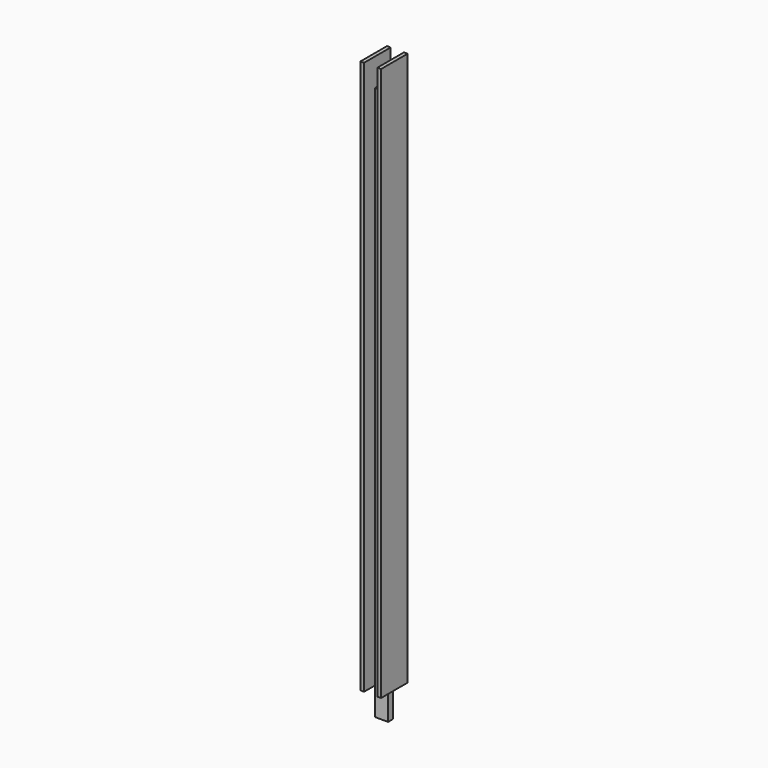
from build123d import *

# Parameters (mm, degrees)
F1_DEPTH = 200
F3_DEPTH = 10
F5_DEPTH = 10


with BuildPart() as f1:
    # F0 (on Top) → F1 (new body)
    with BuildSketch(Plane.XY):
        Polygon((2.4, 1.1429430888), (0, 1.1429430888), (-2.4, 1.1429430888), (-2.4, 6), (-3.7251238391, 6), (-3.7251238391, 0), (-3.7251238391, -6), (-2.4, -6), (-2.4, -1.1429430888), (0, -1.1429430888), (2.4, -1.1429430888), (2.4, -6), (3.7251238391, -6), (3.7251238391, 0), (3.7251238391, 6), (2.4, 6), align=None)
        Polygon((2.4, 1.1429430888), (0, 1.1429430888), (-2.4, 1.1429430888), (-2.4, 6), (-3.7251238391, 6), (-3.7251238391, 0), (-3.7251238391, -6), (-2.4, -6), (-2.4, -1.1429430888), (0, -1.1429430888), (2.4, -1.1429430888), (2.4, -6), (3.7251238391, -6), (3.7251238391, 0), (3.7251238391, 6), (2.4, 6), align=None)
    extrude(amount=F1_DEPTH)

    # F2 (on face) → F3 (join)
    with BuildSketch(Plane.XY.offset(200)):
        Polygon((-2.4, -6), (-2.4, -1.1429430888), (-2.4, 1.1429430888), (-2.4, 6), (-3.7251238391, 6), (-3.7251238391, -6), align=None)
        Polygon((2.4, 1.1429430888), (2.4, -1.1429430888), (2.4, -6), (3.7251238391, -6), (3.7251238391, 6), (2.4, 6), align=None)
    extrude(amount=F3_DEPTH)

    # F4 (on face) → F5 (cut)
    with BuildSketch(Plane(origin=(0, 0, 0), x_dir=(1, 0, 0), z_dir=(0, 0, -1))):
        Polygon((2.4, 1.1429430888), (2.4, -1.1429430888), (2.4, -6), (3.7251238391, -6), (3.7251238391, 6), (2.4, 6), align=None)
        Polygon((-2.4, -6), (-2.4, -1.1429430888), (-2.4, 1.1429430888), (-2.4, 6), (-3.7251238391, 6), (-3.7251238391, -6), align=None)
    extrude(amount=-F5_DEPTH, mode=Mode.SUBTRACT)


solid = f1.part
